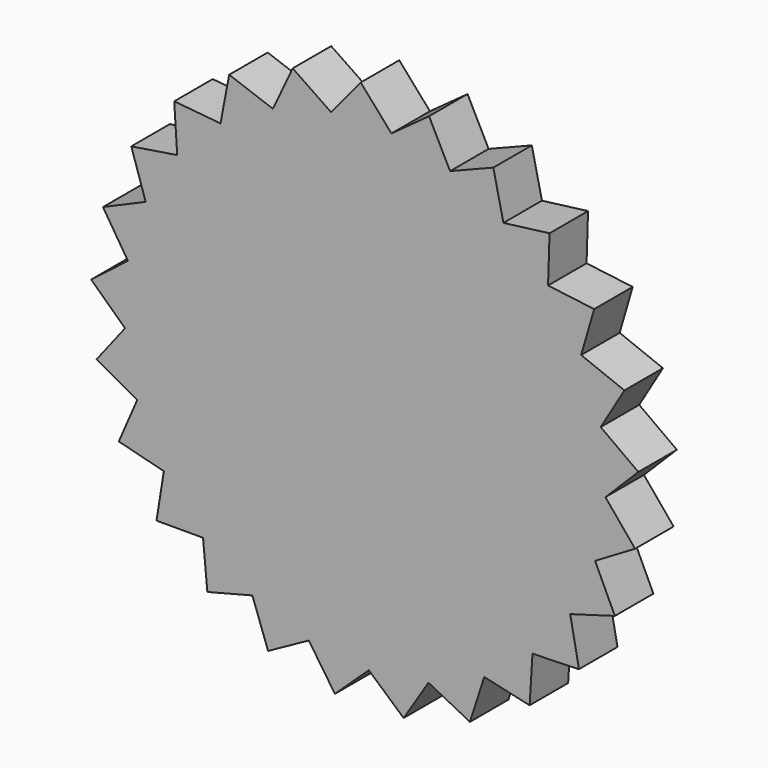
from build123d import *

# Parameters (mm, degrees)
F0_R     = 127
F1_DEPTH = 12.7
F3_DEPTH = 25.4
F4_COUNT = 25


with BuildPart() as f1:
    # F0 (on Front) → F1 (new body, symmetric)
    with BuildSketch(Plane.XZ):
        Circle(F0_R)
    extrude(amount=F1_DEPTH, both=True)

    # F2 (on face) → F3 (join)
    with BuildSketch(Plane.XZ.offset(12.7)):
        Polygon((-2.263107348, 144.6492542012), (-17.8864400176, 125.7341451774), (13.9443057634, 126.2321525475), align=None)
    extrude(amount=-F3_DEPTH)

    # F4: F1 ×25 about axis
    f4_axis = Axis((0, 0, 0), (0, -1, 0))


with BuildPart() as f1_1:
    add(f1.part)
    for i in range(1, F4_COUNT):
        add(f1.part.rotate(f4_axis, i * 360 / F4_COUNT))


solid = f1_1.part
